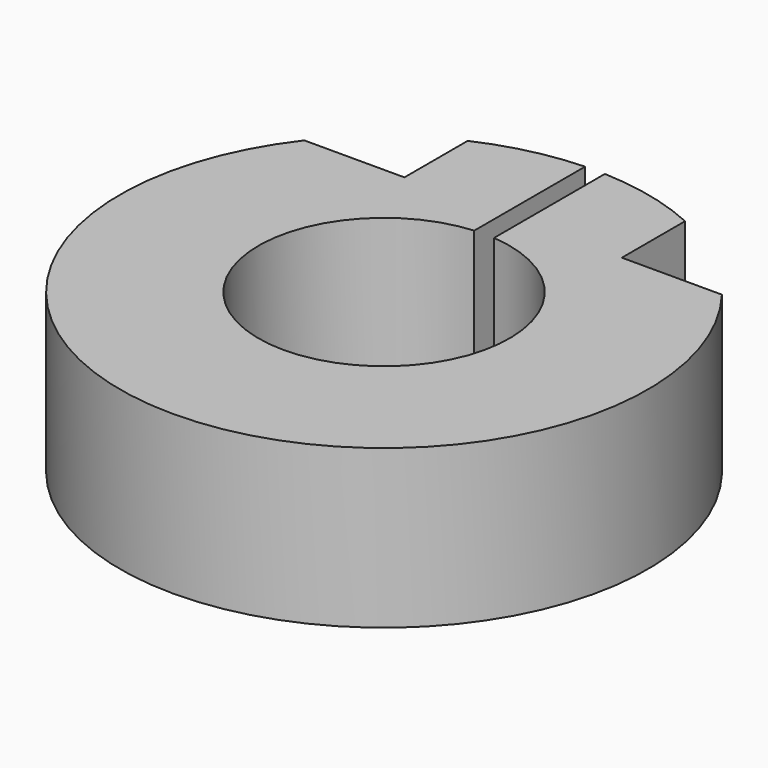
from build123d import *

# Parameters (mm, degrees)
F1_DEPTH = 8
F2_R     = 1.6
F3_DEPTH = 25.4


with BuildPart() as f1:
    # F0 (on Top) → F1 (new body)
    with BuildSketch(Plane.XY):
        with BuildLine():
            ThreePointArc((0.5, 6.330284), (0, -6.35), (-0.5, 6.330284))
            Line((-0.5, 6.330284), (-0.5, 13.340633))
            ThreePointArc((-0.5, 13.340633), (-3.057104, 12.995254), (-5.5, 12.164395))
            Line((-5.5, 12.164395), (-5.5, 8.164395))
            Line((-5.5, 8.164395), (-10.562441, 8.164395))
            ThreePointArc((-10.562441, 8.164395), (0, -13.35), (10.562441, 8.164395))
            Line((10.562441, 8.164395), (5.5, 8.164395))
            Line((5.5, 8.164395), (5.5, 12.164395))
            ThreePointArc((5.5, 12.164395), (3.057104, 12.995254), (0.5, 13.340633))
            Line((0.5, 13.340633), (0.5, 6.330284))
        make_face()
    extrude(amount=F1_DEPTH)

    # F2 (on face) → F3 (cut)
    with BuildSketch(Plane.YZ.offset(5.5)):
        with Locations((10.164395, 4)):
            Circle(F2_R)
    extrude(amount=-F3_DEPTH, mode=Mode.SUBTRACT)


solid = f1.part
